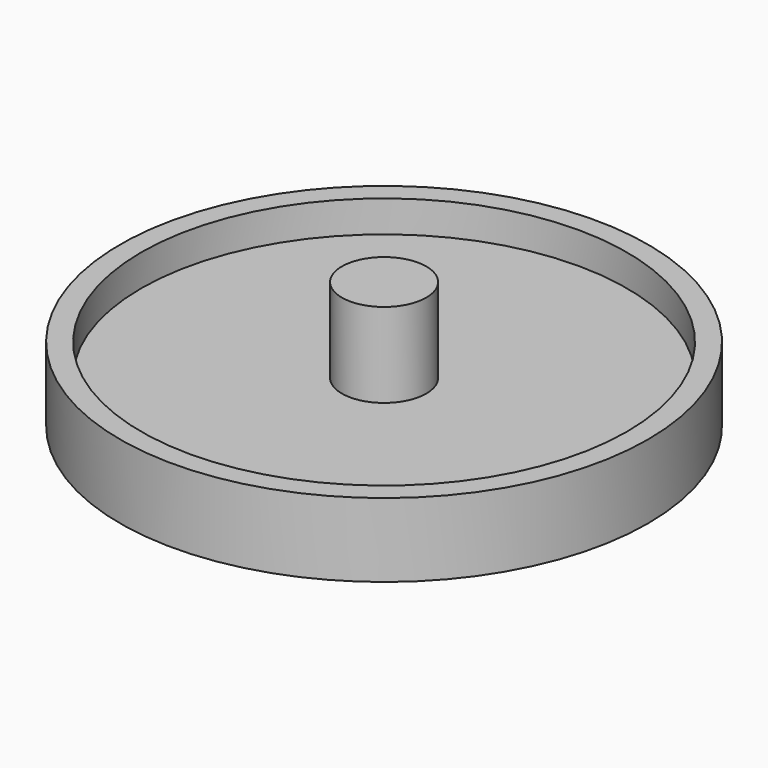
from build123d import *

# Parameters (mm, degrees)
F0_R     = 6.25
F1_DEPTH = 1
F2_R     = 6.25
F2_R_2   = 5.75
F3_DEPTH = 0.75
F2_R_3   = 1
F4_DEPTH = 2


with BuildPart() as f1:
    # F0 (on Top) → F1 (new body)
    with BuildSketch(Plane.XY):
        Circle(F0_R)
    extrude(amount=F1_DEPTH)

    # F2 (on face) → F3 (join)
    with BuildSketch(Plane.XY.offset(1)):
        Circle(F2_R)
        Circle(F2_R_2, mode=Mode.SUBTRACT)
    extrude(amount=F3_DEPTH)

    # F2 (on face) → F4 (join)
    with BuildSketch(Plane.XY.offset(1)):
        Circle(F2_R_3)
    extrude(amount=F4_DEPTH)


solid = f1.part
